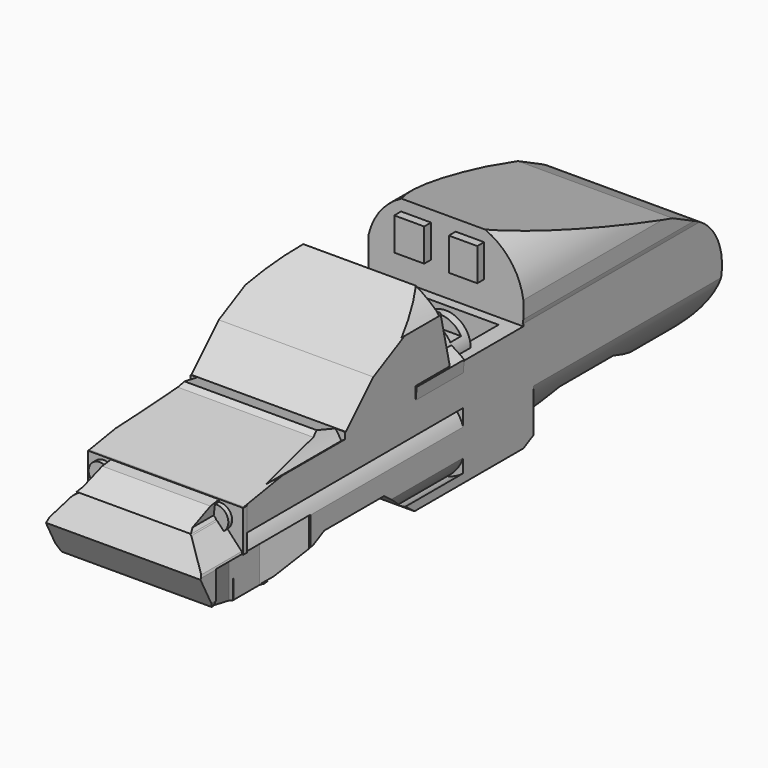
from build123d import *

# Parameters (mm, degrees)
F1_DEPTH  = 16.51
F6_R      = 4.825413
F6_R_2    = 4.84416
F7_DEPTH  = 3.81
F8_R      = 4.869905
F8_R_2    = 4.563309
F9_DEPTH  = 3.81
F12_DEPTH = 37.084
F14_DEPTH = 8.128
F16_DEPTH = 4.826
F19_DEPTH = 36.83
F20_W     = 3.042205
F20_H     = 3.498535
F20_W_2   = 3.199916
F21_DEPTH = 3.81
F23_DEPTH = 6.35
F26_DEPTH = 4.064
F28_R     = 2.654722
F29_DEPTH = 5.334
F30_W     = 1.438775
F30_H     = 4.666502
F31_DEPTH = 25.4
F33_DEPTH = 11.684
F35_DEPTH = 25.4
F36_W     = 12.320932
F36_H     = 2.433764
F37_DEPTH = 2.54
F39_DEPTH = 6.35
F41_DEPTH = 25.4
F42_R     = 0.774515
F43_DEPTH = 35.814
F44_W     = 3.817064
F44_H     = 2.894929
F44_H_2   = 1.854659
F45_DEPTH = 7.366
F47_DEPTH = 25.4
F48_R     = 0.775612
F49_DEPTH = 25.4
F52_DEPTH = 25.4
F55_DEPTH = 28.448
F56_W     = 16.580021
F56_H     = 4.411197
F57_DEPTH = 0.508
F60_DEPTH = 57.912
F61_R     = 1.188019
F61_R_2   = 1.254334
F62_DEPTH = 0.508


with BuildPart() as f1:
    # F0 (on Right) → F1 (new body)
    with BuildSketch(Plane.YZ):
        with BuildLine():
            Line((21.180183, 5.889336), (26.690347, 3.416979))
            ThreePointArc((26.690347, 3.416979), (34.11749, 7.04518), (31.147925, 14.759322))
            Line((31.147925, 14.759322), (27.937311, 16.355636))
            Line((27.937311, 16.355636), (8.025263, 22.058805))
            Line((8.025263, 22.058805), (8.025263, 14.276899))
            Line((8.025263, 14.276899), (-1.736101, 14.276899))
            Line((-1.736101, 14.276899), (-18.545162, 14.276899))
            Line((-18.545162, 14.276899), (-30.579984, 12.253735))
            Line((-30.579984, 12.253735), (-33.36456, 10.812981))
            Line((-33.36456, 10.812981), (-35.079286, 7.9794))
            Line((-35.079286, 7.9794), (-33.36456, 4.665313))
            Line((-33.36456, 4.665313), (-28.555298, 2.805204))
            Line((-28.555298, 2.805204), (-24.50593, 2.805204))
            Line((-24.50593, 2.805204), (-18.545162, 5.889336))
            Line((-18.545162, 5.889336), (-10.558097, 5.889336))
            Line((-10.558097, 5.889336), (-6.508724, 2.805204))
            Line((-6.508724, 2.805204), (8.025263, 2.805204))
            Line((8.025263, 2.805204), (13.986032, 5.889336))
            Line((13.986032, 5.889336), (21.180183, 5.889336))
        make_face()
        Polygon((-18.545162, 14.276899), (-1.736101, 14.276899), (-3.504904, 22.058805), align=None)
    extrude(amount=F1_DEPTH)

    # F6 (on offset) → F7 (cut)
    with BuildSketch(Plane.YZ.offset(4.064)):
        with Locations((-14.873335, 3.348067)):
            Circle(F6_R)
        with Locations((17.627237, 3.348067)):
            Circle(F6_R_2)
    extrude(amount=-F7_DEPTH, mode=Mode.SUBTRACT)

    # F8 (on offset) → F9 (cut)
    with BuildSketch(Plane.YZ.offset(11.684)):
        with Locations((-14.906806, 3.346426)):
            Circle(F8_R)
        with Locations((17.49268, 3.346426)):
            Circle(F8_R_2)
    extrude(amount=F9_DEPTH, mode=Mode.SUBTRACT)

    # F11 (on Front) → F12 (cut)
    with BuildSketch(Plane.XZ):
        with BuildLine():
            ThreePointArc((13.994144, 10.799829), (16.729329, 7.071395), (14.754695, 2.890095))
            ThreePointArc((14.754695, 2.890095), (17.934858, 7.187312), (13.994144, 10.799829))
        make_face()
        with BuildLine():
            ThreePointArc((1.801761, 2.890095), (-0.136625, 6.942581), (2.1659, 10.799829))
            ThreePointArc((2.1659, 10.799829), (-1.783058, 7.018378), (1.801761, 2.890095))
        make_face()
    extrude(amount=F12_DEPTH, mode=Mode.SUBTRACT)

    # F13 (on Top) → F14 (cut)
    with BuildSketch(Plane.XY):
        Polygon((-10.405927, -33.174001), (0, -33.174001), (2.015071, -29.07295), (2.015071, -24.971899), (0, -20.415178), (-6.189675, -21.851482), align=None)
        Polygon((14.731842, -29.07295), (16.094917, -33.137646), (20.715563, -31.588135), (20.715563, -20.195095), (16.397821, -20.415178), (14.731842, -24.971899), align=None)
    extrude(amount=F14_DEPTH, mode=Mode.SUBTRACT)

    # F15 (on Top) → F16 (cut)
    with BuildSketch(Plane.XY):
        Polygon((14.754695, -28.44462), (2.129543, -28.596731), (4.106977, -33.312149), (11.560382, -33.312149), align=None)
    extrude(amount=F16_DEPTH, mode=Mode.SUBTRACT)

    # F18 (on offset) → F19 (cut)
    with BuildSketch(Plane.XZ.offset(-7.112)):
        with BuildLine():
            ThreePointArc((0, 14.450476), (0.509482, 19.01159), (3.802756, 22.2081))
            Line((3.802756, 22.2081), (12.016712, 22.2081))
            ThreePointArc((12.016712, 22.2081), (15.692131, 19.165068), (16.42791, 14.450476))
            ThreePointArc((16.42791, 14.450476), (8.213955, 35.746628), (0, 14.450476))
        make_face()
    extrude(amount=-F19_DEPTH, mode=Mode.SUBTRACT)

    # F20 (on offset) → F21 (join)
    with BuildSketch(Plane.XZ.offset(-7.112)):
        with Locations((10.799829, 19.089838)):
            Rectangle(F20_W, F20_H)
        with Locations((5.055696, 19.089838)):
            Rectangle(F20_W_2, F20_H)
    extrude(amount=-F21_DEPTH)

    # F22 (on Front) → F23 (join)
    with BuildSketch(Plane.XZ):
        with BuildLine():
            Line((16.275797, 10.343499), (16.615259, 14.448708))
            ThreePointArc((16.615259, 14.448708), (8.333061, 17.271686), (0, 14.602587))
            Line((0, 14.602587), (0, 10.343499))
            Line((0, 10.343499), (16.275797, 10.343499))
        make_face()
    extrude(amount=F23_DEPTH)

    # F25 (on offset) → F26 (cut)
    with BuildSketch(Plane.XY.offset(11.176)):
        with BuildLine():
            ThreePointArc((3.032779, 1.657649), (2.014458, 4.225553), (1.667734, 6.966154))
            Line((1.667734, 6.966154), (1.667734, 1.657649))
            Line((1.667734, 1.657649), (3.032779, 1.657649))
        make_face()
        with BuildLine():
            Line((14.711493, 6.966154), (1.667734, 6.966154))
            ThreePointArc((1.667734, 6.966154), (2.014458, 4.225553), (3.032779, 1.657649))
            Line((3.032779, 1.657649), (13.043106, 1.657649))
            ThreePointArc((13.043106, 1.657649), (14.284575, 4.1839), (14.711493, 6.966154))
        make_face()
        with BuildLine():
            Line((14.711493, 1.657649), (14.711493, 6.966154))
            ThreePointArc((14.711493, 6.966154), (14.284575, 4.1839), (13.043106, 1.657649))
            Line((13.043106, 1.657649), (14.711493, 1.657649))
        make_face()
        with BuildLine():
            Line((13.043106, 1.657649), (3.032779, 1.657649))
            ThreePointArc((3.032779, 1.657649), (8.037942, 1.048758), (13.043106, 1.657649))
        make_face()
    extrude(amount=F26_DEPTH, mode=Mode.SUBTRACT)

    # F28 (on offset) → F29 (join)
    with BuildSketch(Plane.XZ.offset(3.048)):
        with Locations((12.82878, 14.265581)):
            Circle(F28_R)
    extrude(amount=-F29_DEPTH)

    # F30 (on offset) → F31 (cut)
    with BuildSketch(Plane.YZ.offset(16.51)):
        with Locations((0.719387, 17.922037)):
            Rectangle(F30_W, F30_H)
    extrude(amount=-F31_DEPTH, mode=Mode.SUBTRACT)

    # F32 (on offset) → F33 (cut)
    with BuildSketch(Plane.XZ.offset(3.048)):
        with BuildLine():
            ThreePointArc((0, 19.511539), (8.156624, 24.168834), (16.39788, 19.662993))
            ThreePointArc((16.39788, 19.662993), (8.050352, 35.674957), (0, 19.511539))
        make_face()
    extrude(amount=F33_DEPTH, mode=Mode.SUBTRACT)

    # F34 (on offset) → F35 (cut)
    with BuildSketch(Plane.YZ.offset(16.51)):
        Polygon((-15.667358, 13.994144), (-11.712491, 17.949011), (-20.534886, 15.363137), align=None)
    extrude(amount=-F35_DEPTH, mode=Mode.SUBTRACT)

    # F36 (on offset) → F37 (cut)
    with BuildSketch(Plane.XZ.offset(3.048)):
        with Locations((8.44212, 19.318004)):
            Rectangle(F36_W, F36_H)
    extrude(amount=F37_DEPTH, mode=Mode.SUBTRACT)

    # F38 (on Top) → F39 (join)
    with BuildSketch(Plane.XY):
        Polygon((5.9323, -12.168821), (6.08441, -16.427908), (9.582948, -16.427908), (9.582948, -12.168821), align=None)
    extrude(amount=F39_DEPTH)

    # F40 (on offset) → F41 (cut)
    with BuildSketch(Plane.YZ.offset(16.51)):
        with BuildLine():
            ThreePointArc((-12.067919, 2.908682), (-14.5088, 1.583097), (-17.027687, 2.753689))
            ThreePointArc((-17.027687, 2.753689), (-14.346238, -3.618912), (-12.067919, 2.908682))
        make_face()
    extrude(amount=-F41_DEPTH, mode=Mode.SUBTRACT)

    # F42 (on Right) → F43 (cut)
    with BuildSketch(Plane.YZ):
        with Locations((-14.298804, 3.954867)):
            Circle(F42_R)
    extrude(amount=F43_DEPTH, mode=Mode.SUBTRACT)

    # F44 (on offset) → F45 (join)
    with BuildSketch(Plane.XY.offset(8.382)):
        with Locations((7.719627, 18.01499)):
            Rectangle(F44_W, F44_H)
        with Locations((7.719627, 15.640197)):
            Rectangle(F44_W, F44_H_2)
    extrude(amount=-F45_DEPTH)

    # F46 (on offset) → F47 (cut)
    with BuildSketch(Plane.YZ.offset(16.51)):
        with BuildLine():
            ThreePointArc((19.165894, 2.281654), (16.884239, 1.521103), (14.602585, 2.281654))
            ThreePointArc((14.602585, 2.281654), (16.884239, -10.853906), (19.165894, 2.281654))
        make_face()
    extrude(amount=-F47_DEPTH, mode=Mode.SUBTRACT)

    # F48 (on offset) → F49 (cut)
    with BuildSketch(Plane.YZ.offset(16.51)):
        with Locations((17.18846, 3.954867)):
            Circle(F48_R)
    extrude(amount=-F49_DEPTH, mode=Mode.SUBTRACT)

    # F51 (on offset) → F52 (cut)
    with BuildSketch(Plane.XZ.offset(-9.398)):
        with BuildLine():
            ThreePointArc((16.588761, 8.492604), (15.175703, 5.254596), (12.52309, 2.921129))
            ThreePointArc((12.52309, 2.921129), (22.932826, -0.406007), (16.588761, 8.492604))
        make_face()
        with BuildLine():
            ThreePointArc((2.735362, 2.921129), (0.903269, 5.397236), (0, 8.342024))
            ThreePointArc((0, 8.342024), (-22.041514, -6.180608), (2.735362, 2.921129))
        make_face()
    extrude(amount=-F52_DEPTH, mode=Mode.SUBTRACT)

    # F54 (on offset) → F55 (cut)
    with BuildSketch(Plane.XZ.offset(29.464)):
        Polygon((-11.40827, 11.10405), (0, 8.213954), (2.129543, 11.10405), align=None)
        Polygon((-11.40827, 11.10405), (2.129543, 11.10405), (2.646632, 13.145188), align=None)
        Polygon((24.06265, 9.855897), (13.842035, 11.10405), (16.529871, 8.213954), align=None)
        Polygon((14.091301, 13.145188), (13.842035, 11.10405), (24.06265, 9.855897), (24.06265, 11.10405), align=None)
    extrude(amount=F55_DEPTH, mode=Mode.SUBTRACT)

    # F56 (on offset) → F57 (join)
    with BuildSketch(Plane.XZ.offset(29.464)):
        with Locations((8.29001, 10.267443)):
            Rectangle(F56_W, F56_H)
    extrude(amount=-F57_DEPTH)

    # F59 (on offset) → F60 (cut)
    with BuildSketch(Plane.XZ.offset(15.748)):
        with BuildLine():
            Line((-4.319179, 17.644791), (0, 13.064523))
            ThreePointArc((0, 13.064523), (1.360344, 15.217234), (2.129543, 17.644791))
            Line((2.129543, 17.644791), (-4.319179, 17.644791))
        make_face()
        with BuildLine():
            Line((22.911735, 17.644791), (14.158941, 17.644791))
            ThreePointArc((14.158941, 17.644791), (14.874316, 15.245452), (16.104005, 13.064523))
            Line((16.104005, 13.064523), (22.911735, 17.644791))
        make_face()
    extrude(amount=F60_DEPTH, mode=Mode.SUBTRACT)

    # F61 (on offset) → F62 (join)
    with BuildSketch(Plane.XZ.offset(29.464)):
        with Locations((1.673213, 10.951939)):
            Circle(F61_R)
        with Locations((14.146254, 10.951939)):
            Circle(F61_R_2)
    extrude(amount=F62_DEPTH)


solid = f1.part
